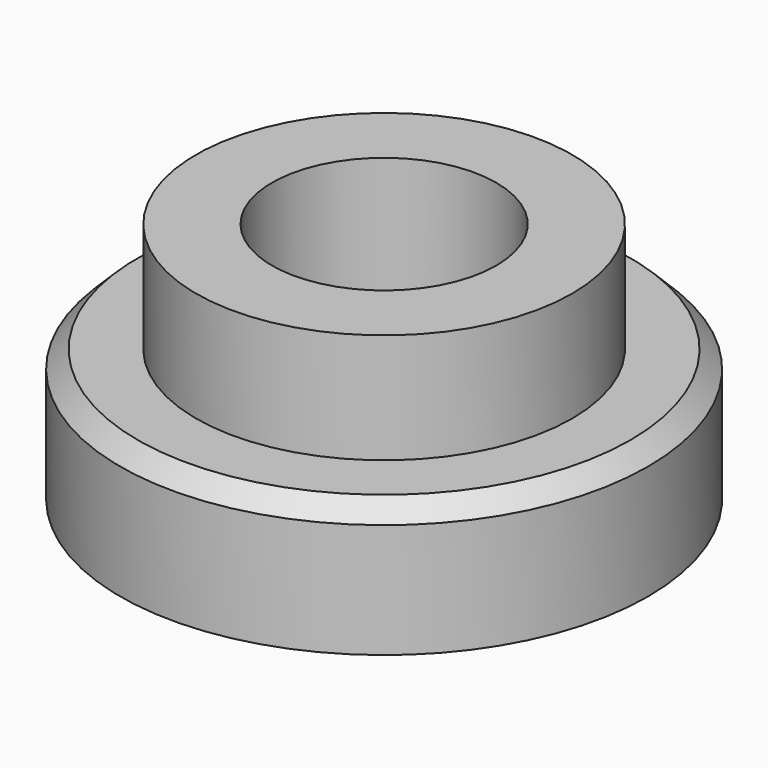
from build123d import *

# Parameters (mm, degrees)
F0_R     = 8.55
F1_DEPTH = 11
F0_R_2   = 12
F2_DEPTH = 6
F3_R     = 5.1
F4_DEPTH = 25
F5_SIZE  = 0.8


with BuildPart() as f1:
    # F0 (on Top) → F1 (new body)
    with BuildSketch(Plane.XY):
        Circle(F0_R)
    extrude(amount=F1_DEPTH)

    # F0 (on Top) → F2 (join)
    with BuildSketch(Plane.XY):
        Circle(F0_R_2)
        Circle(F0_R, mode=Mode.SUBTRACT)
    extrude(amount=F2_DEPTH)

    # F3 (on face) → F4 (cut)
    with BuildSketch(Plane.XY.offset(11)):
        Circle(F3_R)
    extrude(amount=-F4_DEPTH, mode=Mode.SUBTRACT)

    # F5
    f5_edges = [f1.edges().sort_by_distance(p)[0] for p in [
        (-12, 0, 6),
    ]]
    chamfer(f5_edges, length=F5_SIZE)


solid = f1.part
